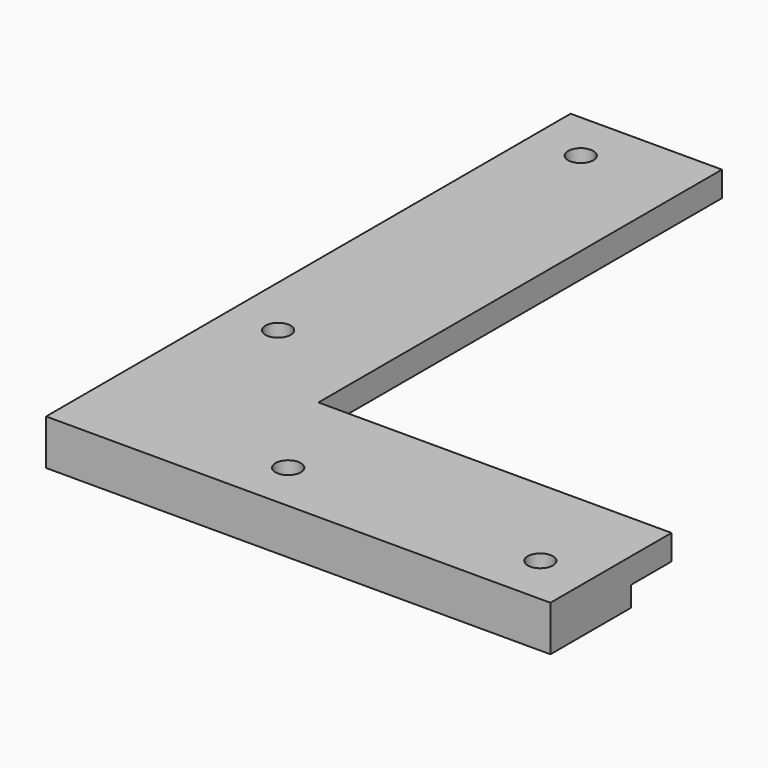
from build123d import *

# Parameters (mm, degrees)
F1_DEPTH  = 12
F2_W      = 100
F2_H      = 20
F3_DEPTH  = 5
F4_W      = 135
F4_H      = 20
F5_DEPTH  = 5
F7_R      = 2.5
F8_DEPTH  = 25
F9_DEPTH  = 5
F10_W     = 20
F10_H     = 20
F10_W_2   = 100
F10_H_2   = 130
F11_DEPTH = 25
F12_W     = 130
F12_H     = 16
F13_DEPTH = 100.0010001


with BuildPart() as f1:
    # F0 (on Top) → F1 (new body)
    with BuildSketch(Plane.XY):
        with BuildLine():
            add(Edge.make_bspline(
                [(-86.5, 0), (-86.5, -116.5), (0, -116.5)],
                knots=[1.5707963268, 1.5707963268, 1.5707963268, 3.1415926536, 3.1415926536, 3.1415926536], degree=2, weights=[1, 0.7071067812, 1]))
            Line((-86.5, 0), (-86.5, -116.5))
            Line((-86.5, -116.5), (0, -116.5))
        make_face()
        Polygon((-86.5, -116.5), (-86.5, 0), (-100, 0), (-100, -130), (0, -130), (0, -116.5), align=None)
    extrude(amount=F1_DEPTH)

    # F2 (on face) → F3 (join)
    with BuildSketch(Plane.XZ.offset(130)):
        with Locations((-50, 6)):
            Rectangle(F2_W, F2_H)
    extrude(amount=F3_DEPTH)

    # F4 (on face) → F5 (join)
    with BuildSketch(Plane(origin=(-100, 0, 0), x_dir=(0, -1, 0), z_dir=(-1, 0, 0))):
        with Locations((67.5, 6)):
            Rectangle(F4_W, F4_H)
    extrude(amount=F5_DEPTH)

    # F7 (on face) → F8 (join)
    with BuildSketch(Plane(origin=(0, 0, -4), x_dir=(1, 0, 0), z_dir=(0, 0, -1))):
        Polygon((0, 135), (0, 150), (-120, 150), (-120, 0), (-105, 0), (-105, 135), align=None)
        with Locations((-110, 30)):
            Circle(F7_R, mode=Mode.SUBTRACT)
        with Locations((-110, 105)):
            Circle(F7_R, mode=Mode.SUBTRACT)
        with Locations((-80, 140)):
            Circle(F7_R, mode=Mode.SUBTRACT)
        with Locations((-30, 140)):
            Circle(F7_R, mode=Mode.SUBTRACT)
    extrude(amount=-F8_DEPTH)

    # F6 (on face) → F9 (join)
    with BuildSketch(Plane.XY.offset(16)):
        Polygon((-90, 0), (-105, 0), (-105, -135), (0, -135), (0, -120), (-90, -120), align=None)
    extrude(amount=F9_DEPTH)

    # F10 (on Top) → F11 (cut, symmetric)
    with BuildSketch(Plane.XY):
        with Locations((-10, -10)):
            Rectangle(F10_W, F10_H)
        with Locations((-70, -10)):
            Rectangle(F10_W_2, F10_H)
        with Locations((-10, -85)):
            Rectangle(F10_W, F10_H_2)
    extrude(amount=F11_DEPTH, both=True, mode=Mode.SUBTRACT)

    # F12 (on face) → F13 (cut, through all)
    with BuildSketch(Plane.YZ.offset(-20)):
        with Locations((-85, 4)):
            Rectangle(F12_W, F12_H)
    extrude(amount=-F13_DEPTH, mode=Mode.SUBTRACT)


solid = f1.part
